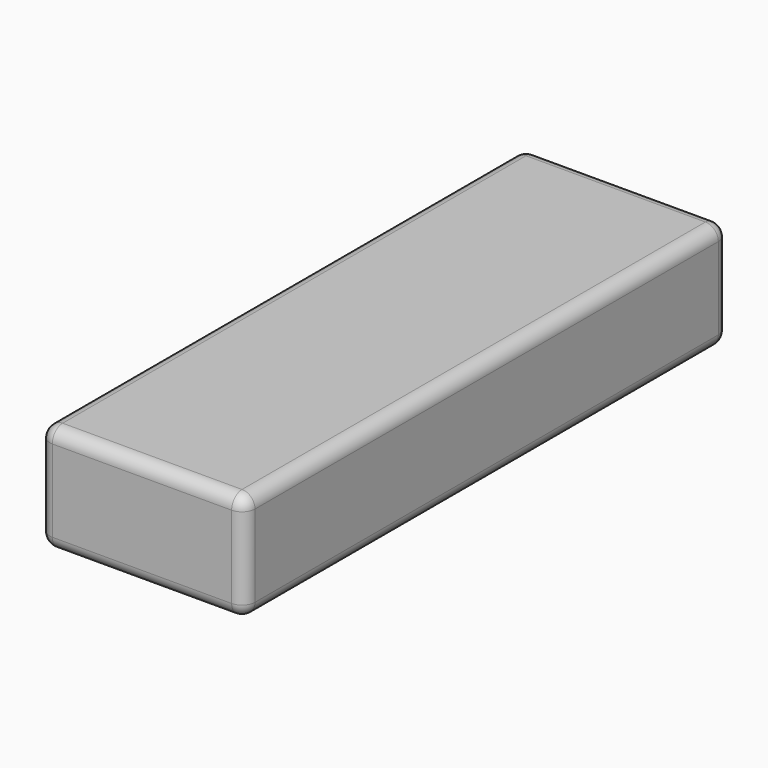
from build123d import *

# Parameters (mm, degrees)
F1_DEPTH = 12.5
F2_R     = 3


with BuildPart() as f1:
    # F0 (on Top) → F1 (new body, symmetric)
    with BuildSketch(Plane.XY):
        Polygon((23.75, 70), (-23.75, 70), (23.75, -70), align=None)
        Polygon((23.75, -70), (-23.75, 70), (-23.75, -70), align=None)
    extrude(amount=F1_DEPTH, both=True)

    # F2
    f2_edges = [f1.edges().sort_by_distance(p)[0] for p in [
        (-23.75, 0, 12.5),
        (-23.75, 0, -12.5),
        (23.75, 0, 12.5),
        (0, 70, 12.5),
        (0, -70, 12.5),
        (-23.75, 70, 0),
        (-23.75, -70, 0),
        (0, 70, -12.5),
        (23.75, 70, 0),
        (23.75, 0, -12.5),
        (0, -70, -12.5),
        (23.75, -70, 0),
    ]]
    fillet(f2_edges, radius=F2_R)


solid = f1.part
